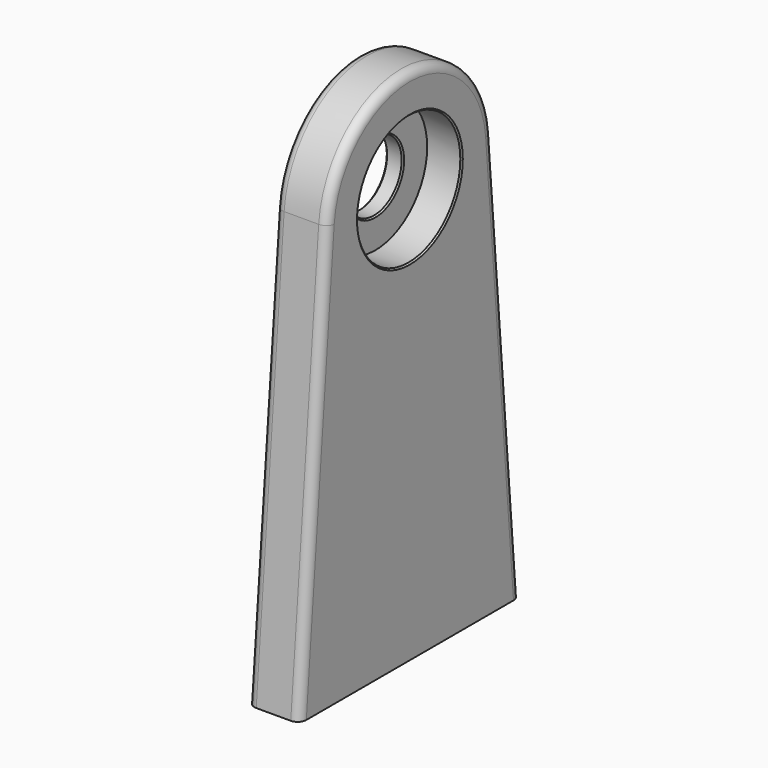
from build123d import *

# Parameters (mm, degrees)
F0_R     = 23.8125
F1_DEPTH = 19.05
F0_R_2   = 12.7
F2_DEPTH = 6.35
F3_SIZE  = 0.508
F4_R     = 2.54
F5_DEPTH = 25.4
F6_R     = 3.175


with BuildPart() as f1:
    # F0 (on Right) → F1 (new body)
    with BuildSketch(Plane.YZ):
        with BuildLine():
            Line((50.8, -152.4), (37.971048, 3.132016))
            ThreePointArc((37.971048, 3.132016), (0, 38.1), (-37.971048, 3.132016))
            Line((-37.971048, 3.132016), (-50.8, -152.4))
            Line((-50.8, -152.4), (50.8, -152.4))
        make_face()
        Circle(F0_R, mode=Mode.SUBTRACT)
    extrude(amount=F1_DEPTH)

    # F0 (on Right) → F2 (join)
    with BuildSketch(Plane.YZ):
        Circle(F0_R)
        Circle(F0_R_2, mode=Mode.SUBTRACT)
    extrude(amount=F2_DEPTH)

    # F3
    f3_edges = [f1.edges().sort_by_distance(p)[0] for p in [
        (6.35, -12.7, 0),
        (19.05, -23.8125, 0),
        (0, -12.7, 0),
    ]]
    chamfer(f3_edges, length=F3_SIZE)

    # F4 (on face) → F5 (cut)
    with BuildSketch(Plane(origin=(0, 0, -152.4), x_dir=(1, 0, 0), z_dir=(0, 0, -1))):
        with Locations((9.525, 25.4)):
            Circle(F4_R)
        with Locations((9.525, -25.4)):
            Circle(F4_R)
    extrude(amount=-F5_DEPTH, mode=Mode.SUBTRACT)

    # F6
    f6_edges = [f1.edges().sort_by_distance(p)[0] for p in [
        (19.05, -44.385524, -74.633992),
        (0, -44.385524, -74.633992),
    ]]
    fillet(f6_edges, radius=F6_R)


solid = f1.part
